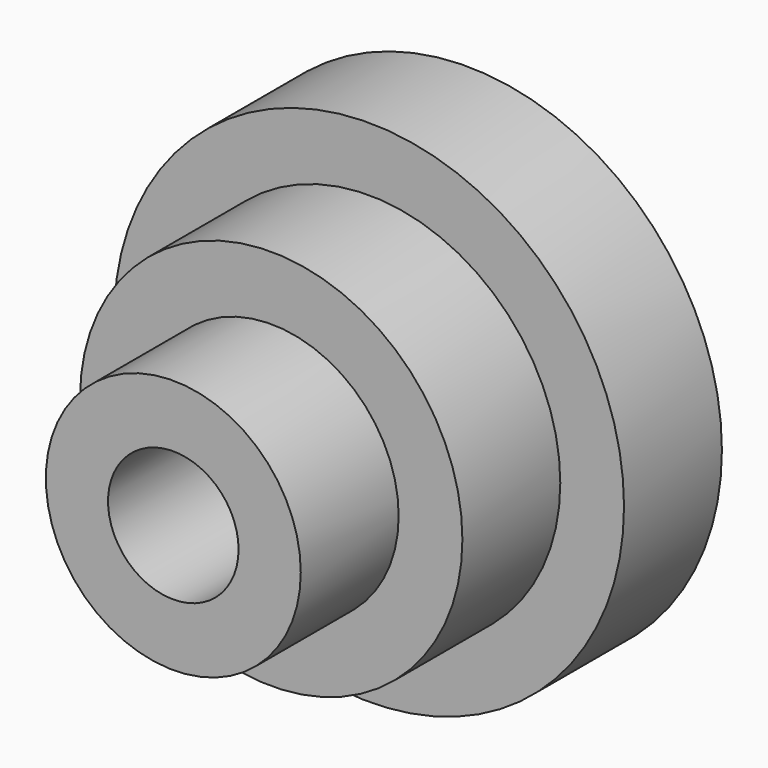
from build123d import *

# Parameters (mm, degrees)
F0_R     = 31.25
F0_R_2   = 16
F1_DEPTH = 90
F0_R_3   = 46.875
F2_DEPTH = 60
F0_R_4   = 62.5
F3_DEPTH = 30
F4_R     = 50
F4_R_2   = 20
F5_DEPTH = 25


with BuildPart() as f1:
    # F0 (on Front) → F1 (new body)
    with BuildSketch(Plane.XZ):
        Circle(F0_R)
        Circle(F0_R_2, mode=Mode.SUBTRACT)
    extrude(amount=F1_DEPTH)

    # F0 (on Front) → F2 (join)
    with BuildSketch(Plane.XZ):
        Circle(F0_R_3)
        Circle(F0_R, mode=Mode.SUBTRACT)
    extrude(amount=F2_DEPTH)

    # F0 (on Front) → F3 (join)
    with BuildSketch(Plane.XZ):
        Circle(F0_R_4)
        Circle(F0_R_3, mode=Mode.SUBTRACT)
    extrude(amount=F3_DEPTH)

    # F4 (on Front) → F5 (cut)
    with BuildSketch(Plane.XZ):
        Circle(F4_R)
        Circle(F4_R_2, mode=Mode.SUBTRACT)
    extrude(amount=F5_DEPTH, mode=Mode.SUBTRACT)


solid = f1.part
